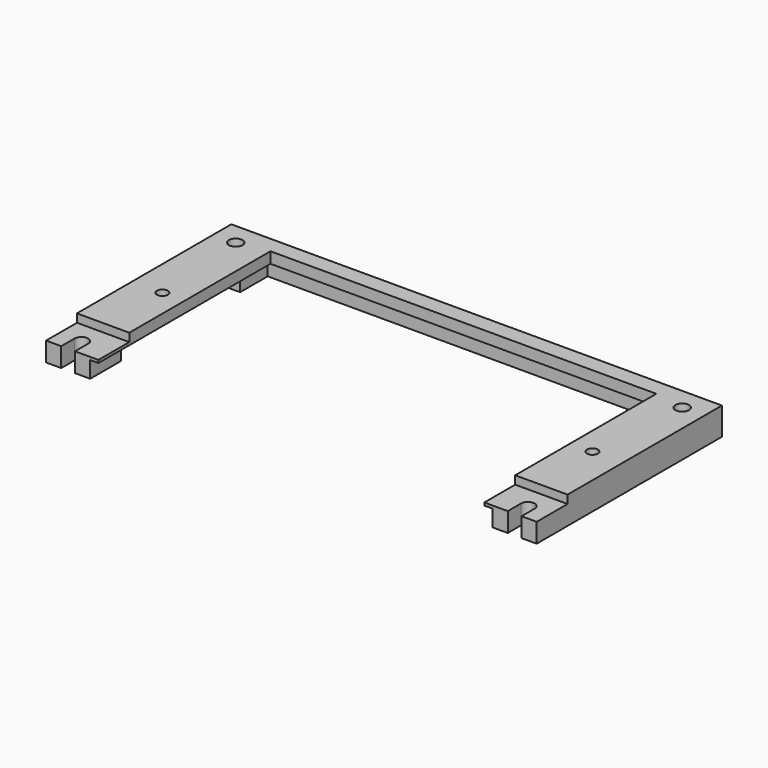
from build123d import *

# Parameters (mm, degrees)
F0_W      = 89
F0_H      = 45
F1_DEPTH  = 5
F2_W      = 70
F2_H      = 39
F3_DEPTH  = 25
F4_W      = 85.5
F4_H      = 41.5
F5_DEPTH  = 3
F6_W      = 8
F6_H      = 8
F6_H_2    = 10
F7_DEPTH  = 3
F8_R      = 1.25
F8_R_2    = 1
F9_DEPTH  = 25
F10_W     = 70
F10_H     = 3
F11_DEPTH = 1.5
F12_W     = 2.5
F12_H     = 9.640063
F12_H_2   = 8.398674
F13_DEPTH = 25
F14_W     = 110
F14_H     = 3.5
F15_DEPTH = 3


with BuildPart() as f1:
    # F0 (on Top) → F1 (new body)
    with BuildSketch(Plane.XY):
        Rectangle(F0_W, F0_H)
    extrude(amount=F1_DEPTH)

    # F2 (on Top) → F3 (cut)
    with BuildSketch(Plane.XY):
        Rectangle(F2_W, F2_H)
    extrude(amount=F3_DEPTH, mode=Mode.SUBTRACT)

    # F4 (on Top) → F5 (cut)
    with BuildSketch(Plane.XY):
        Rectangle(F4_W, F4_H)
    extrude(amount=F5_DEPTH, mode=Mode.SUBTRACT)

    # F6 (on Top) → F7 (join)
    with BuildSketch(Plane.XY):
        with Locations((-40.5, 18.5)):
            Rectangle(F6_W, F6_H)
        with Locations((-40.5, -17.5)):
            Rectangle(F6_W, F6_H_2)
        with Locations((40.5, 18.5)):
            Rectangle(F6_W, F6_H)
        with Locations((40.5, -17.5)):
            Rectangle(F6_W, F6_H_2)
    extrude(amount=F7_DEPTH)

    # F8 (on Top) → F9 (cut)
    with BuildSketch(Plane.XY):
        with BuildLine():
            ThreePointArc((39.75, -17.5), (39.381966, -17.940983), (39.25, -18.5))
            ThreePointArc((39.25, -18.5), (40.5, -19.75), (41.75, -18.5))
            ThreePointArc((41.75, -18.5), (41.618034, -17.940983), (41.25, -17.5))
            ThreePointArc((41.25, -17.5), (40.5, -17.75), (39.75, -17.5))
        make_face()
        with BuildLine():
            Line((39.25, -16.5), (39.25, -18.5))
            ThreePointArc((39.25, -18.5), (39.381966, -17.940983), (39.75, -17.5))
            ThreePointArc((39.75, -17.5), (39.381966, -17.059017), (39.25, -16.5))
        make_face()
        with BuildLine():
            ThreePointArc((41.25, -17.5), (41.618034, -17.940983), (41.75, -18.5))
            Line((41.75, -18.5), (41.75, -16.5))
            ThreePointArc((41.75, -16.5), (41.618034, -17.059017), (41.25, -17.5))
        make_face()
        with BuildLine():
            ThreePointArc((39.25, -16.5), (39.381966, -17.059017), (39.75, -17.5))
            ThreePointArc((39.75, -17.5), (40.5, -17.25), (41.25, -17.5))
            ThreePointArc((41.25, -17.5), (41.618034, -17.059017), (41.75, -16.5))
            ThreePointArc((41.75, -16.5), (40.5, -15.25), (39.25, -16.5))
        make_face()
        with Locations((40.5, 18.5)):
            Circle(F8_R)
        with BuildLine():
            ThreePointArc((-41.25, -17.5), (-41.618034, -17.940983), (-41.75, -18.5))
            ThreePointArc((-41.75, -18.5), (-40.5, -19.75), (-39.25, -18.5))
            ThreePointArc((-39.25, -18.5), (-39.381966, -17.940983), (-39.75, -17.5))
            ThreePointArc((-39.75, -17.5), (-40.5, -17.75), (-41.25, -17.5))
        make_face()
        with BuildLine():
            Line((-41.75, -16.5), (-41.75, -18.5))
            ThreePointArc((-41.75, -18.5), (-41.618034, -17.940983), (-41.25, -17.5))
            ThreePointArc((-41.25, -17.5), (-41.618034, -17.059017), (-41.75, -16.5))
        make_face()
        with BuildLine():
            ThreePointArc((-39.75, -17.5), (-39.381966, -17.940983), (-39.25, -18.5))
            Line((-39.25, -18.5), (-39.25, -16.5))
            ThreePointArc((-39.25, -16.5), (-39.381966, -17.059017), (-39.75, -17.5))
        make_face()
        with BuildLine():
            ThreePointArc((-41.75, -16.5), (-41.618034, -17.059017), (-41.25, -17.5))
            ThreePointArc((-41.25, -17.5), (-40.5, -17.25), (-39.75, -17.5))
            ThreePointArc((-39.75, -17.5), (-39.381966, -17.059017), (-39.25, -16.5))
            ThreePointArc((-39.25, -16.5), (-40.5, -15.25), (-41.75, -16.5))
        make_face()
        with Locations((-40.5, 18.5)):
            Circle(F8_R)
        with Locations((-39, 0)):
            Circle(F8_R_2)
        with Locations((39, 0)):
            Circle(F8_R_2)
    extrude(amount=F9_DEPTH, mode=Mode.SUBTRACT)

    # F10 (on face) → F11 (cut)
    with BuildSketch(Plane.XY.offset(5)):
        Polygon((-44.5, -12.5), (-44.5, -22.5), (-35, -22.5), (-35, -19.5), (-35, -12.5), align=None)
        with Locations((0, -21)):
            Rectangle(F10_W, F10_H)
        Polygon((35, -19.5), (35, -22.5), (44.5, -22.5), (44.5, -12.5), (35, -12.5), align=None)
    extrude(amount=-F11_DEPTH, mode=Mode.SUBTRACT)

    # F12 (on face) → F13 (cut)
    with BuildSketch(Plane.XY.offset(3.5)):
        with Locations((40.5, -21.320031)):
            Rectangle(F12_W, F12_H)
        with Locations((-40.5, -20.699337)):
            Rectangle(F12_W, F12_H_2)
    extrude(amount=-F13_DEPTH, mode=Mode.SUBTRACT)

    # F14 (on face) → F15 (cut)
    with BuildSketch(Plane.XZ.offset(22.5)):
        with Locations((10.5, 1.75)):
            Rectangle(F14_W, F14_H)
    extrude(amount=-F15_DEPTH, mode=Mode.SUBTRACT)


solid = f1.part
